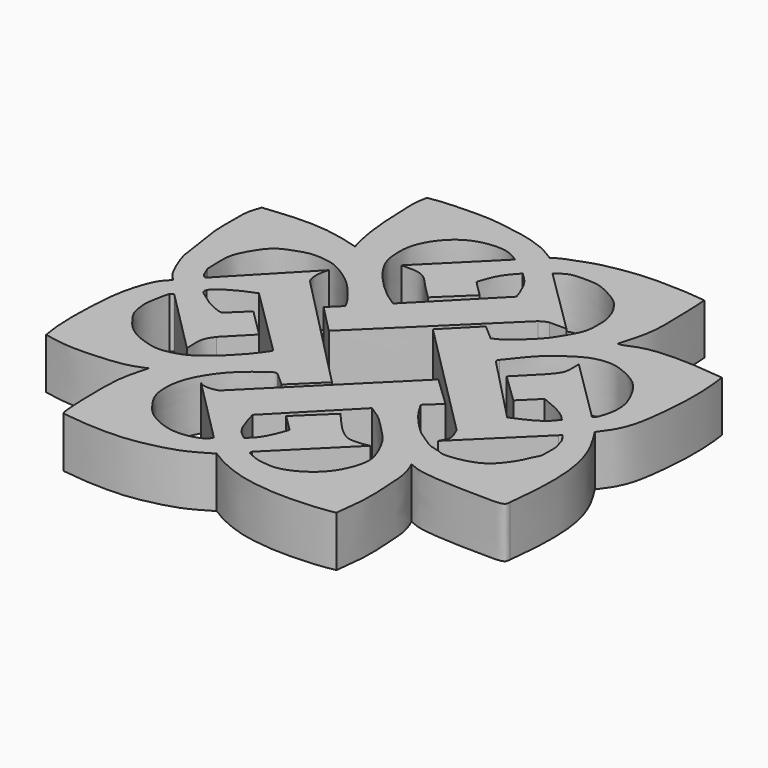
from build123d import *

# Parameters (mm, degrees)
F1_DEPTH = 10


with BuildPart() as f1:
    # F0 (on Top) → F1 (new body)
    with BuildSketch(Plane.XY):
        with BuildLine():
            add(Edge.make_bspline(
                [(23.5886722803, 4.0803840384), (25.0277781657, 3.8914194589), (28.1835495465, 3.4770447989), (34.8960021224, 3.317911598), (39.3939281525, 3.9784185074), (44.6688068319, 5.2575231869), (47.8248183426, 6.8404208115), (49.5735019777, 7.8809484611), (50.4062622786, 8.3764698356)],
                knots=[0, 0, 0, 0, 0.1683308158, 0.3691275093, 0.5392547442, 0.7191014029, 0.8662301199, 1, 1, 1, 1], degree=3))
            add(Edge.make_bspline(
                [(50.4062622786, 8.3764698356), (51.2130528196, 7.8613264335), (53.0583217342, 6.6831047536), (57.8981672221, 4.7408751841), (62.0951508517, 4.0479461741), (67.1773429523, 3.5125301129), (74.3514666814, 3.9605297062), (76.3877286506, 4.3553247902), (77.1680101752, 4.50660754)],
                knots=[0, 0, 0, 0, 0.1384644991, 0.3166921561, 0.4785917296, 0.6588810648, 0.8692855797, 1, 1, 1, 1], degree=3))
            add(Edge.make_bspline(
                [(77.1680101752, 4.50660754), (77.3080498781, 5.6232561077), (77.6069217785, 8.006400836), (77.9920143264, 12.2418776451), (77.5316432769, 18.4339634202), (77.3371624237, 21.3846424069), (76.5242855569, 23.3796707606), (76.112896204, 24.3893358856)],
                knots=[0, 0, 0, 0, 0.1862031928, 0.3973937461, 0.6474000873, 0.8215524936, 1, 1, 1, 1], degree=3))
            add(Edge.make_bspline(
                [(76.112896204, 24.3893358856), (76.8540346607, 24.0715439831), (78.5339120026, 23.3512313185), (82.7828455837, 22.935753604), (87.595903135, 22.7281959749), (93.994405235, 22.5735932152), (95.8115551095, 22.9164190876), (95.8762627653, 23.6096352847), (95.9037169814, 23.9037536085)],
                knots=[0, 0, 0, 0, 0.1511068718, 0.3425014689, 0.5588604109, 0.7986745178, 0.914581463, 1, 1, 1, 1], degree=3))
            add(Edge.make_bspline(
                [(95.9037169814, 23.9037536085), (96.0959836536, 25.5829962664), (96.4970564196, 29.0859356464), (96.6646631815, 35.2354916176), (96.1138441627, 40.7153593792), (94.3425547156, 45.9366488823), (92.4119370619, 48.9680918859), (91.4482995868, 50.4811890423)],
                knots=[0, 0, 0, 0, 0.1940495945, 0.4047919835, 0.6048229845, 0.8027536003, 1, 1, 1, 1], degree=3))
            add(Edge.make_bspline(
                [(91.4482995868, 50.4811890423), (92.0225976116, 51.2306625483), (93.2657935796, 52.8530648561), (94.8768073549, 56.4701933688), (95.5394892627, 62.1009652431), (95.9822906406, 66.4866295742), (95.9816068538, 71.9366209348), (95.6606687705, 75.1187560591), (95.4872660211, 76.3872104177), (95.4137742519, 76.9248083234)],
                knots=[0, 0, 0, 0, 0.1249393206, 0.2704589828, 0.4440268254, 0.6016065789, 0.7725810081, 0.9036149997, 1, 1, 1, 1], degree=3))
            add(Edge.make_bspline(
                [(95.4137742519, 76.9248083234), (94.0118853269, 77.080965275), (91.0620220278, 77.4095516931), (85.9394076565, 77.6927952007), (79.8008718602, 77.3609032743), (76.6658775418, 75.670710659), (75.9951481665, 75.7325473178), (75.7788419724, 75.7524892688)],
                knots=[0, 0, 0, 0, 0.2168767404, 0.4563533712, 0.7192858571, 0.9094713753, 1, 1, 1, 1], degree=3))
            add(Edge.make_bspline(
                [(75.7788419724, 75.7524892688), (75.9806765307, 76.4576287412), (76.3755146708, 77.8370553375), (76.9234390562, 79.6933453327), (77.6309014269, 83.6311268593), (77.4347391144, 87.5286374198), (77.4192170556, 91.7155290579), (77.2500009911, 94.1894631771), (77.1680101752, 95.3881666064)],
                knots=[0, 0, 0, 0, 0.1350587165, 0.264208136, 0.4471189334, 0.6334825006, 0.8224100714, 1, 1, 1, 1], degree=3))
            add(Edge.make_bspline(
                [(77.1680101752, 95.3881666064), (75.9853289271, 95.5230534567), (73.5702638543, 95.7984958225), (69.6757970228, 95.9286440956), (65.6596956979, 95.9848532008), (62.2003551182, 95.5778438101), (59.8661901693, 95.2092066631), (56.3690914569, 94.5081356713), (53.5463701784, 93.3663149164), (50.9145234283, 92.4611252708), (50.0655227387, 91.8178402568), (49.7067496181, 91.5459990501)],
                knots=[0, 0, 0, 0, 0.1201513333, 0.2453520667, 0.373454304, 0.4901999297, 0.587973005, 0.7062071933, 0.8193343326, 0.9236537896, 1, 1, 1, 1], degree=3))
            add(Edge.make_bspline(
                [(49.7067496181, 91.5459990501), (48.8420396606, 92.0983473026), (46.9651643481, 93.297233461), (42.7254471347, 94.7663035804), (38.6980938084, 95.3744706841), (33.9617267493, 96.1556441633), (29.5802775836, 95.9888461414), (25.2263131502, 95.8900360686), (23.2355226364, 95.5437626457), (22.3409719765, 95.3881666064)],
                knots=[0, 0, 0, 0, 0.1281173016, 0.2780819146, 0.4237943191, 0.5791341213, 0.7304893412, 0.8788968824, 1, 1, 1, 1], degree=3))
            add(Edge.make_bspline(
                [(22.3409719765, 95.3881666064), (22.1918445571, 94.6938273295), (21.8522570021, 93.112703092), (22.0319407628, 89.4383626394), (22.2370729312, 83.8453581662), (22.953966053, 78.8404526146), (23.5754617061, 76.6942275745), (23.8481666893, 75.7524892688)],
                knots=[0, 0, 0, 0, 0.1518385001, 0.3457611295, 0.590292833, 0.8202253137, 1, 1, 1, 1], degree=3))
            add(Edge.make_bspline(
                [(23.8481666893, 75.7524892688), (23.1363443413, 75.9651360498), (21.5748826597, 76.4317914438), (18.1544213706, 77.1883630825), (14.1649319676, 77.620788621), (9.4266109793, 77.4628773283), (6.2042182995, 77.1017338877), (4.4317506254, 76.9248083234)],
                knots=[0, 0, 0, 0, 0.1552687411, 0.3446036079, 0.5496961801, 0.7702433279, 1, 1, 1, 1], degree=3))
            add(Edge.make_bspline(
                [(4.4317506254, 76.9248083234), (4.2873373489, 76.1922807408), (3.5073996938, 74.6172295031), (3.6814170391, 71.0160920165), (3.4566723021, 66.5619170527), (4.5349774944, 61.6199307986), (4.8447442618, 57.2691271771), (5.8511554714, 54.5183265467), (7.4294269412, 50.8375064479), (8.5389920074, 49.9112329786), (8.8037608205, 49.6145067618), (8.9031374082, 49.5034269989)],
                knots=[0, 0, 0, 0, 0.0997614179, 0.2209824724, 0.3584147636, 0.5050085413, 0.6381585188, 0.7511896701, 0.8794784404, 0.9547908609, 1, 1, 1, 1], degree=3))
            add(Edge.make_bspline(
                [(8.9031374082, 49.5034269989), (8.3142850259, 48.9015377144), (6.995452887, 47.5514689817), (5.6661435406, 43.5810834767), (4.8169411297, 39.5935254297), (4.5417158533, 35.1925710756), (4.3663341331, 30.1544687872), (4.561289977, 25.748911572), (4.9368893984, 23.7943530989), (5.0540175289, 22.9261722416)],
                knots=[0, 0, 0, 0, 0.1176257204, 0.2641416893, 0.4113307917, 0.5630464838, 0.7271780273, 0.8791701692, 1, 1, 1, 1], degree=3))
            add(Edge.make_bspline(
                [(5.0540175289, 22.9261722416), (6.7376800817, 22.6104789608), (10.2079566888, 21.9597885922), (16.0056092542, 22.2007161252), (21.1185004492, 22.7042502588), (23.3725333851, 23.653745323), (24.3887268007, 24.0818094462)],
                knots=[0, 0, 0, 0, 0.2587670324, 0.5333569827, 0.7896217247, 1, 1, 1, 1], degree=3))
            add(Edge.make_bspline(
                [(24.3887268007, 24.0818094462), (24.2346951409, 23.5487714186), (23.8580084205, 22.2452189747), (22.9865575764, 18.3953962053), (22.8940265663, 14.2056885881), (22.9592849411, 9.0411495025), (23.2070624028, 4.5940546069), (23.5108693549, 4.1851116026), (23.5886722803, 4.0803840384)],
                knots=[0, 0, 0, 0, 0.1293518728, 0.3163319334, 0.513237114, 0.7377856488, 0.9328486611, 1, 1, 1, 1], degree=3))
        make_face()
        with BuildLine():
            add(Edge.make_bspline(
                [(25.1397415996, 49.0368455648), (26.975421235, 47.207026432), (28.8111008704, 45.3772072991), (30.6467805058, 43.5473881662)],
                knots=[0, 0, 0, 0, 7.7757070448, 7.7757070448, 7.7757070448, 7.7757070448], degree=3))
            add(Edge.make_bspline(
                [(21.655458957, 45.7109920681), (22.8168865045, 46.8196099003), (23.978314052, 47.9282277326), (25.1397415996, 49.0368455648)],
                knots=[0, 0, 0, 0, 4.8167963436, 4.8167963436, 4.8167963436, 4.8167963436], degree=3))
            add(Edge.make_bspline(
                [(15.0212915614, 50.126273185), (14.9694457016, 49.8650483174), (14.8494344759, 49.2603729078), (16.0773455608, 48.4499779826), (17.7032353367, 47.2071460012), (19.4904697022, 46.2690848865), (21.0736263753, 45.6429870785), (21.5005252303, 45.6928833083), (21.655458957, 45.7109920681)],
                knots=[0, 0, 0, 0, 0.125647543, 0.290845126, 0.5006168389, 0.710825241, 0.8950502618, 1, 1, 1, 1], degree=3))
            add(Edge.make_bspline(
                [(22.0145303756, 54.2951785028), (21.6006307054, 54.1418454983), (20.6871204935, 53.8034270951), (18.8496957679, 52.9735600039), (17.0043937301, 51.8966954061), (15.6462250835, 50.8939025538), (15.2093511681, 50.3572738788), (15.0212915614, 50.126273185)],
                knots=[0, 0, 0, 0, 0.1855195673, 0.4094567633, 0.6434230214, 0.8465055385, 1, 1, 1, 1], degree=3))
            add(Edge.make_bspline(
                [(35.6977321208, 40.7325252891), (31.1366648724, 45.2534096936), (26.575597624, 49.7742940982), (22.0145303756, 54.2951785028)],
                knots=[0, 0, 0, 0, 19.2659173723, 19.2659173723, 19.2659173723, 19.2659173723], degree=3))
            add(Edge.make_bspline(
                [(35.5840213597, 40.3898283839), (35.6219249467, 40.5040606856), (35.6598285337, 40.6182929873), (35.6977321208, 40.7325252891)],
                knots=[0, 0, 0, 0, 0.3610696691, 0.3610696691, 0.3610696691, 0.3610696691], degree=3))
            add(Edge.make_bspline(
                [(11.3919517025, 45.5416403711), (11.2869199738, 45.2212171125), (11.0345594154, 44.4513336357), (10.6863782654, 42.2407383513), (10.3798612992, 40.6951164463), (10.6411142638, 38.9117347102), (10.8796386083, 37.2060081489), (12.2004278776, 35.2696927651), (13.5014654017, 33.5273264633), (15.7913313481, 31.5839179104), (19.2453289586, 30.3592155589), (21.4315976966, 29.9738056102), (24.2606361546, 30.3807507719), (27.2101677183, 31.6251854423), (30.0090321733, 33.9744776402), (31.8237482962, 35.7171607497), (33.6064731088, 37.6201405576), (34.892661654, 39.4215331428), (35.5840213597, 40.3898283839)],
                knots=[0, 0, 0, 0, 0.0425461995, 0.1022260873, 0.1534009869, 0.2060958327, 0.2586620848, 0.3189837352, 0.3782216601, 0.4475058661, 0.5237754538, 0.583465039, 0.6496110329, 0.7218736412, 0.7981916465, 0.8616667765, 0.9256423041, 1, 1, 1, 1], degree=3))
            add(Edge.make_bspline(
                [(12.1848862618, 45.7109920681), (12.0828226804, 45.7936255832), (11.8506991177, 45.9815592776), (11.5566877354, 45.6996150933), (11.3919517025, 45.5416403711)],
                knots=[0, 0, 0, 0, 0.4396950497, 1, 1, 1, 1], degree=3))
            add(Edge.make_bspline(
                [(24.8163323849, 33.0103524029), (20.6058503439, 37.243898958), (16.3953683029, 41.477445513), (12.1848862618, 45.7109920681)],
                knots=[0, 0, 0, 0, 17.9125564637, 17.9125564637, 17.9125564637, 17.9125564637], degree=3))
            add(Edge.make_bspline(
                [(25.9913485497, 38.8015061617), (25.7777535032, 38.4893081048), (25.3367674447, 37.8447473211), (24.7199596408, 36.641088418), (24.7177543938, 35.0129826693), (24.7821719672, 33.704327658), (24.8163323849, 33.0103524029)],
                knots=[0, 0, 0, 0, 0.2187314488, 0.45159062, 0.7091803905, 1, 1, 1, 1], degree=3))
            add(Edge.make_bspline(
                [(30.6467805058, 43.5473881662), (29.0949698538, 41.965427498), (27.5431592017, 40.3834668299), (25.9913485497, 38.8015061617)],
                knots=[0, 0, 0, 0, 6.6480405157, 6.6480405157, 6.6480405157, 6.6480405157], degree=3))
        make_face(mode=Mode.SUBTRACT)
        with BuildLine():
            add(Edge.make_bspline(
                [(54.2663708329, 21.5834677219), (54.0002048082, 20.8170986368), (53.4449154127, 19.2182596174), (52.0665627763, 16.5253848688), (50.9280702362, 15.5655858081), (50.4062622786, 15.1256788522)],
                knots=[0, 0, 0, 0, 0.3327361148, 0.6941713776, 1, 1, 1, 1], degree=3))
            add(Edge.make_bspline(
                [(50.4062622786, 15.1256788522), (49.8032536922, 15.5598688659), (48.5175025771, 16.4856604829), (47.3761257598, 19.2390383343), (46.881306984, 21.0508301639), (46.6348491609, 21.9532418996)],
                knots=[0, 0, 0, 0, 0.30714627, 0.6549055323, 1, 1, 1, 1], degree=3))
            add(Edge.make_bspline(
                [(46.6348491609, 21.9532418996), (50.9637097518, 26.3749745985), (55.2925703426, 30.7967072974), (59.6214309335, 35.2184399962)],
                knots=[0, 0, 0, 0, 18.563856999, 18.563856999, 18.563856999, 18.563856999], degree=3))
            add(Edge.make_bspline(
                [(59.6214309335, 35.2184399962), (60.4886029667, 34.69254606), (62.3103448229, 33.5877560541), (64.906111805, 30.7876446921), (67.7082529558, 28.1749312254), (69.5796233056, 24.1643054743), (70.4867639209, 21.4739188533), (69.6438901314, 17.8376824487), (67.7986006165, 14.588217372), (65.05913043, 12.1098639705), (61.1319381212, 10.2340717753), (58.4193195272, 10.428541394), (56.1646533161, 10.7494081617), (54.9555063109, 11.4501363844), (54.1471772568, 11.7201319493), (54.2290235754, 12.1167661835), (54.2663708329, 12.297754176)],
                knots=[0, 0, 0, 0, 0.0763565099, 0.160408598, 0.2460983174, 0.3361153595, 0.4085052592, 0.4900710561, 0.573521708, 0.6570719656, 0.7460738921, 0.8173609292, 0.8819925367, 0.9333921942, 0.9696062215, 1, 1, 1, 1], degree=3))
            add(Edge.make_bspline(
                [(54.2663708329, 12.297754176), (58.6042230328, 16.6082661599), (62.9420752327, 20.9187781438), (67.2799274325, 25.2292901278)],
                knots=[0, 0, 0, 0, 18.3460425554, 18.3460425554, 18.3460425554, 18.3460425554], degree=3))
            add(Edge.make_bspline(
                [(67.2799274325, 25.2292901278), (66.6563800226, 25.0906351598), (65.724403192, 24.8833963589), (65.3508929504, 24.966613642), (63.4346135714, 24.7128934216), (61.8395481688, 25.6922795297), (60.4420196277, 26.7469547536), (58.3377560697, 29.1620534696), (56.9906830788, 30.7081118226)],
                knots=[0, 0, 0, 0, 0.1537309003, 0.2297718424, 0.3928625872, 0.5580928913, 0.7171071426, 1, 1, 1, 1], degree=3))
            add(Edge.make_bspline(
                [(56.9906830788, 30.7081118226), (54.9672792355, 28.7620363136), (52.9438753923, 26.8159608046), (50.920471549, 24.8698852956)],
                knots=[0, 0, 0, 0, 8.4221349429, 8.4221349429, 8.4221349429, 8.4221349429], degree=3))
            add(Edge.make_bspline(
                [(50.920471549, 24.8698852956), (52.0357713103, 23.7744127711), (53.1510710716, 22.6789402465), (54.2663708329, 21.5834677219)],
                knots=[0, 0, 0, 0, 4.6899448277, 4.6899448277, 4.6899448277, 4.6899448277], degree=3))
        make_face(mode=Mode.SUBTRACT)
        with BuildLine():
            add(Edge.make_bspline(
                [(25.6249383092, 67.0811012387), (21.1877739057, 62.4592006207), (16.7506095022, 57.8373000026), (12.3134450987, 53.2153993845)],
                knots=[0, 0, 0, 0, 19.2211742462, 19.2211742462, 19.2211742462, 19.2211742462], degree=3))
            add(Edge.make_bspline(
                [(12.3134450987, 53.2153993845), (12.0640559275, 53.3382344414), (11.5415786887, 53.5955772967), (11.2282268135, 54.5743477695), (10.8785744559, 55.3146415147), (10.6915347278, 55.7106472552)],
                knots=[0, 0, 0, 0, 0.2981028646, 0.6245337791, 1, 1, 1, 1], degree=3))
            add(Edge.make_bspline(
                [(10.6915347278, 55.7106472552), (10.6034312969, 57.5893558007), (10.4555986444, 60.7417241548), (11.3195448424, 62.9805842803), (12.7595618631, 65.5756918077), (14.6127436909, 67.8178483148), (17.7060026455, 69.0039299231), (20.290008963, 69.8077791746), (23.7417038049, 69.4629598644), (25.9902077685, 68.7390186643), (29.8391506219, 66.1692868561), (31.9013587282, 63.8663097618), (34.1453959568, 61.1513345015), (34.8172851708, 59.8565338834), (35.1107977331, 59.2909045517)],
                knots=[0, 0, 0, 0, 0.106116322, 0.178057281, 0.2579634354, 0.3381947053, 0.422442735, 0.5009415158, 0.5862871184, 0.6601497002, 0.7595681489, 0.8451405248, 0.9323501548, 1, 1, 1, 1], degree=3))
            add(Edge.make_bspline(
                [(35.1107977331, 59.2909045517), (34.3058407307, 58.5017763078), (33.5008837283, 57.7126480639), (32.6959267259, 56.92351982)],
                knots=[0, 0, 0, 0, 3.381732167, 3.381732167, 3.381732167, 3.381732167], degree=3))
            add(Edge.make_bspline(
                [(32.6959267259, 56.92351982), (34.5541623731, 55.027016749), (36.4123980204, 53.130513678), (38.2706336677, 51.234010607)],
                knots=[0, 0, 0, 0, 7.965417288, 7.965417288, 7.965417288, 7.965417288], degree=3))
            add(Edge.make_bspline(
                [(38.2706336677, 51.234010607), (46.369937559, 58.946095407), (53.3910232286, 66.2223137915), (61.4903271198, 73.9343985915)],
                knots=[0, 0, 0, 0, 32.4724772486, 32.4724772486, 32.4724772486, 32.4724772486], degree=3))
            add(Edge.make_bspline(
                [(61.4903271198, 73.9343985915), (61.7721210954, 74.1163770777), (62.3187076836, 74.4693548151), (62.8937533803, 74.6148100846), (63.1723329425, 74.6852755547)],
                knots=[0, 0, 0, 0, 0.5155523052, 1, 1, 1, 1], degree=3))
            add(Edge.make_bspline(
                [(63.1723329425, 74.6852755547), (64.2777482669, 74.6852755547), (65.3831635912, 74.6852755547), (66.4885789156, 74.6852755547)],
                knots=[0, 0, 0, 0, 3.3162459731, 3.3162459731, 3.3162459731, 3.3162459731], degree=3))
            add(Edge.make_bspline(
                [(66.4885789156, 74.6852755547), (62.0889092485, 79.0330991149), (57.6892395814, 83.3809226751), (53.2895699143, 87.7287462354)],
                knots=[0, 0, 0, 0, 18.5565612659, 18.5565612659, 18.5565612659, 18.5565612659], degree=3))
            add(Edge.make_bspline(
                [(53.2895699143, 87.7287462354), (53.6715212072, 88.0396531122), (54.4512319624, 88.6743346548), (55.9441235258, 89.411288102), (58.3655493057, 89.4164457803), (61.0124154887, 89.3861586598), (63.1678093907, 88.42083887), (65.2251295506, 87.3075612334), (66.9160857783, 86.1002417536), (68.4816575576, 83.6936619089), (68.9698273057, 82.4115942819), (69.5039432894, 80.4786557153), (69.4807828709, 79.3668698598), (69.5160153395, 78.0201433024), (69.3760792407, 76.1922350151), (68.6764504633, 74.4701002514), (67.2251697494, 72.0161120642), (66.1590075466, 70.3049176257), (63.7351916067, 67.880395555), (61.1837773369, 65.6526109282), (59.9058167062, 65.0966677678), (59.3597814441, 64.8591294885)],
                knots=[0, 0, 0, 0, 0.0441536249, 0.0901346765, 0.1464440995, 0.2056488072, 0.2612396797, 0.3162073012, 0.3692500544, 0.4295095581, 0.4734805762, 0.5237306453, 0.5622273957, 0.6038829837, 0.6524775587, 0.7025950423, 0.7631616338, 0.8152944103, 0.8824619964, 0.9497794431, 1, 1, 1, 1], degree=3))
            add(Edge.make_bspline(
                [(59.3597814441, 64.8591294885), (58.3351925015, 65.7483960191), (57.310603559, 66.6376625498), (56.2860146165, 67.5269290805)],
                knots=[0, 0, 0, 0, 4.0700365076, 4.0700365076, 4.0700365076, 4.0700365076], degree=3))
            add(Edge.make_bspline(
                [(56.2860146165, 67.5269290805), (54.4237109522, 65.6324041386), (52.3626257976, 63.5608347754), (50.5003221333, 61.6663098335)],
                knots=[0, 0, 0, 0, 8.2353564263, 8.2353564263, 8.2353564263, 8.2353564263], degree=3))
            add(Edge.make_bspline(
                [(50.5003221333, 61.6663098335), (58.4823389848, 53.6483017107), (66.4643558363, 45.6302935878), (74.4463726878, 37.612285465)],
                knots=[0, 0, 0, 0, 33.9412643471, 33.9412643471, 33.9412643471, 33.9412643471], degree=3))
            add(Edge.make_bspline(
                [(74.4463726878, 37.612285465), (74.6235476099, 37.2148301887), (74.9579373746, 36.4646959445), (75.2864025199, 35.4925008299), (75.3523129296, 34.5882523609), (74.6865122618, 33.5015809271), (74.5136044498, 33.1773091791), (74.4463726878, 33.0512225628)],
                knots=[0, 0, 0, 0, 0.2307584931, 0.4355203168, 0.628253083, 0.8554536089, 1, 1, 1, 1], degree=3))
            add(Edge.make_bspline(
                [(74.4463726878, 33.0512225628), (78.8919826349, 37.4125639598), (83.3375925819, 41.7739053567), (87.783202529, 46.1352467537)],
                knots=[0, 0, 0, 0, 18.6832202588, 18.6832202588, 18.6832202588, 18.6832202588], degree=3))
            add(Edge.make_bspline(
                [(87.783202529, 46.1352467537), (87.9209265113, 46.2630515297), (88.0586504936, 46.3908563058), (88.196374476, 46.5186610818)],
                knots=[0, 0, 0, 0, 0.5636644434, 0.5636644434, 0.5636644434, 0.5636644434], degree=3))
            add(Edge.make_bspline(
                [(88.196374476, 46.5186610818), (88.5467397307, 46.1170883966), (89.2301325783, 45.3335482629), (89.6279262955, 43.9716100934), (90.0476924518, 42.6143632502), (89.9861407857, 41.2232434713), (90.0328768659, 39.580557509), (89.802191866, 38.7747668936), (89.4156098366, 38.0849391222), (89.1642943025, 37.612285465)],
                knots=[0, 0, 0, 0, 0.1535959757, 0.2991892182, 0.4440037909, 0.5913646325, 0.7472145622, 0.8578575519, 1, 1, 1, 1], degree=3))
            add(Edge.make_bspline(
                [(89.1642943025, 37.612285465), (89.0078196876, 37.2128786748), (88.6737354409, 36.3601172431), (87.790637569, 34.8781398582), (86.7587742906, 33.4511616429), (85.4136611597, 32.0744875028), (83.7081696479, 31.0352337971), (81.547041183, 30.4257214204), (79.6651120904, 30.0346843612), (77.4712061202, 29.9515984134), (76.8139733904, 30.4799053306), (74.7393319944, 30.799537586), (73.2695121101, 31.7876855321), (70.6314536475, 33.4178088758), (68.5716786404, 35.5456843617), (66.4995066283, 37.8511081288), (65.3725898746, 39.7869314045), (64.7948160768, 40.7794341445)],
                knots=[0, 0, 0, 0, 0.053236036, 0.1136626602, 0.1752524232, 0.2388562533, 0.3040151974, 0.3725227275, 0.4386495977, 0.5044835091, 0.5464089367, 0.6106718099, 0.673445417, 0.7538360308, 0.8339936509, 0.9148880177, 1, 1, 1, 1], degree=3))
            add(Edge.make_bspline(
                [(64.7948160768, 40.7794341445), (65.7268315554, 41.657264034), (66.658847034, 42.5350939234), (67.5908625126, 43.4129238129)],
                knots=[0, 0, 0, 0, 3.8409821016, 3.8409821016, 3.8409821016, 3.8409821016], degree=3))
            add(Edge.make_bspline(
                [(67.5908625126, 43.4129238129), (65.6076185405, 45.3094703456), (63.6243745685, 47.2060168783), (61.6411305964, 49.102563411)],
                knots=[0, 0, 0, 0, 8.232333122, 8.232333122, 8.232333122, 8.232333122], degree=3))
            add(Edge.make_bspline(
                [(61.6411305964, 49.102563411), (53.7002372245, 41.1899772783), (45.7593438526, 33.2773911456), (37.8184504807, 25.3648050129)],
                knots=[0, 0, 0, 0, 33.6303621993, 33.6303621993, 33.6303621993, 33.6303621993], degree=3))
            add(Edge.make_bspline(
                [(37.8184504807, 25.3648050129), (37.640074684, 25.2217531666), (37.1849682207, 24.8551490389), (35.3612521663, 24.7291329276), (34.4486753562, 24.8746264209), (33.872804369, 25.2434350039), (33.6621906778, 25.4328151586)],
                knots=[0, 0, 0, 0, 0.2053703026, 0.5163948496, 0.7551245522, 0.941920662, 0.941920662, 0.941920662, 0.941920662], degree=3))
            add(Edge.make_bspline(
                [(33.6621906778, 25.4328151586), (38.0112342649, 21.0570167364), (42.3602778521, 16.6812183142), (46.7093214393, 12.3054198921)],
                knots=[0.2591323449, 0.2591323449, 0.2591323449, 0.2591323449, 18.7674042142, 18.7674042142, 18.7674042142, 18.7674042142], degree=3))
            add(Edge.make_bspline(
                [(46.7093214393, 12.3054198921), (46.5792970073, 12.0047346266), (46.2291758287, 11.1950692584), (43.1238954803, 10.0483575935), (39.3044948723, 9.9979342758), (34.6550015531, 12.0218432396), (32.3249833216, 14.9714332204), (30.3161776014, 18.1143358612), (30.4008389749, 23.5368543593), (32.5886137032, 27.8202528892), (34.8782946838, 30.8500064586), (37.7061935145, 33.3205579433), (40.3831923287, 35.3548963459), (40.8731576627, 35.1765637301), (41.0143509507, 35.1251736283)],
                knots=[0, 0, 0, 0, 0.0475817751, 0.1281250526, 0.2199270104, 0.3219329223, 0.410571851, 0.4980223356, 0.6032540714, 0.7043650963, 0.7934585146, 0.8858330486, 0.9671005148, 1, 1, 1, 1], degree=3))
            add(Edge.make_bspline(
                [(41.0143509507, 35.1251736283), (41.9415980577, 34.3052111566), (42.8688451648, 33.4852486849), (43.7960922718, 32.6652862132)],
                knots=[0, 0, 0, 0, 3.7133719007, 3.7133719007, 3.7133719007, 3.7133719007], degree=3))
            add(Edge.make_bspline(
                [(43.7960922718, 32.6652862132), (45.6659135719, 34.4814658165), (47.535734872, 36.2976454198), (49.4055561721, 38.1138250232)],
                knots=[0, 0, 0, 0, 7.8200166505, 7.8200166505, 7.8200166505, 7.8200166505], degree=3))
            add(Edge.make_bspline(
                [(49.4055561721, 38.1138250232), (41.4539010574, 46.2278487782), (33.5022459428, 54.3418725332), (25.5505908281, 62.4558962882)],
                knots=[0, 0, 0, 0, 34.0821919048, 34.0821919048, 34.0821919048, 34.0821919048], degree=3))
            add(Edge.make_bspline(
                [(25.5505908281, 62.4558962882), (25.388246754, 62.9116495951), (25.0372392828, 63.8970432206), (25.2724758119, 65.9831476167), (25.51950757, 66.7526746319), (25.6249383092, 67.0811012387)],
                knots=[0, 0, 0, 0, 0.3303173711, 0.7141860011, 1, 1, 1, 1], degree=3))
        make_face(mode=Mode.SUBTRACT)
        with BuildLine():
            add(Edge.make_bspline(
                [(45.8468720317, 78.2371535897), (46.0341525029, 78.8315511376), (46.4390610599, 80.1166645921), (47.439749743, 82.3666179458), (49.233492235, 84.4152708845), (49.5921250601, 84.7508882705), (49.7067496181, 84.8581567407)],
                knots=[0, 0, 0, 0, 0.2570006953, 0.5556467259, 0.8579778703, 1, 1, 1, 1], degree=3))
            add(Edge.make_bspline(
                [(49.7067496181, 84.8581567407), (50.4639941984, 84.1563384021), (51.969407256, 82.761113506), (53.1889593233, 79.9134649693), (53.5991668352, 78.7419266953), (53.7759102881, 78.2371535897)],
                knots=[0, 0, 0, 0, 0.3654986307, 0.7266165061, 1, 1, 1, 1], degree=3))
            add(Edge.make_bspline(
                [(53.7759102881, 78.2371535897), (49.2899256448, 73.6734916766), (44.8039410015, 69.1098297636), (40.3179563582, 64.5461678505)],
                knots=[0, 0, 0, 0, 19.1979065132, 19.1979065132, 19.1979065132, 19.1979065132], degree=3))
            add(Edge.make_bspline(
                [(40.3179563582, 64.5461678505), (39.337710471, 65.1766981486), (37.1263509298, 66.5991261424), (32.9972159876, 70.7647945566), (30.6489436809, 74.5278885779), (30.1784688152, 77.5718191425), (30.2191920351, 81.2135953491), (32.1538103172, 85.1268424558), (35.3816507739, 88.2268064509), (39.4156954392, 89.4518152091), (43.3162155207, 89.4031383983), (45.0400883963, 88.2995584226), (45.8468720317, 87.7830758691)],
                knots=[0, 0, 0, 0, 0.0972259933, 0.2193343841, 0.3246105313, 0.4110188647, 0.5053724612, 0.6094311467, 0.7145599481, 0.8170085912, 0.9143588393, 1, 1, 1, 1], degree=3))
            add(Edge.make_bspline(
                [(45.8468720317, 87.7830758691), (41.6819453239, 83.6307605108), (37.5170186162, 79.4784451524), (33.3520919085, 75.3261297941)],
                knots=[0, 0, 0, 0, 17.6435550795, 17.6435550795, 17.6435550795, 17.6435550795], degree=3))
            add(Edge.make_bspline(
                [(33.3520919085, 75.3261297941), (34.4519577392, 75.35592884), (36.460066578, 75.4103352283), (38.5650921873, 74.5238007274), (40.3356118582, 72.3668667221), (42.2027436137, 70.5332439232), (43.237041682, 69.5175081491)],
                knots=[0, 0, 0, 0, 0.2557399623, 0.4669239323, 0.7047023888, 1, 1, 1, 1], degree=3))
            add(Edge.make_bspline(
                [(43.237041682, 69.5175081491), (45.1660988232, 71.3707034787), (47.0951559643, 73.2238988082), (49.0242131054, 75.0770941377)],
                knots=[0, 0, 0, 0, 8.0249828316, 8.0249828316, 8.0249828316, 8.0249828316], degree=3))
            add(Edge.make_bspline(
                [(49.0242131054, 75.0770941377), (47.9650994142, 76.1304472884), (46.9059857229, 77.183800439), (45.8468720317, 78.2371535897)],
                knots=[0, 0, 0, 0, 4.4812355483, 4.4812355483, 4.4812355483, 4.4812355483], degree=3))
        make_face(mode=Mode.SUBTRACT)
        with BuildLine():
            add(Edge.make_bspline(
                [(78.5161852837, 54.270604223), (79.0779886646, 54.0536118592), (80.3711177324, 53.5541504061), (83.4504260085, 52.1074456835), (84.4866925161, 50.9833180019), (84.9495753646, 50.4811890423)],
                knots=[0, 0, 0, 0, 0.2982737785, 0.6865506799, 1, 1, 1, 1], degree=3))
            add(Edge.make_bspline(
                [(84.9495753646, 50.4811890423), (84.4852005274, 49.8742611929), (83.4624736532, 48.5375793302), (80.3589518532, 46.8670983846), (78.6470324556, 46.1642722248), (77.8413265944, 45.8334907889)],
                knots=[0, 0, 0, 0, 0.3056802232, 0.6732220486, 1, 1, 1, 1], degree=3))
            add(Edge.make_bspline(
                [(77.8413265944, 45.8334907889), (73.5271573067, 50.305493176), (69.212988019, 54.777495563), (64.8988187313, 59.2494979501)],
                knots=[0, 0, 0, 0, 18.6412917453, 18.6412917453, 18.6412917453, 18.6412917453], degree=3))
            add(Edge.make_bspline(
                [(64.8988187313, 59.2494979501), (64.8505270417, 59.3176780994), (64.756902648, 59.4498607833), (64.6977842887, 59.6620521015), (64.7147214103, 59.9011277345), (64.8357367585, 60.0314955679), (64.8988187313, 60.099452734)],
                knots=[0, 0, 0, 0, 0.2539630664, 0.4923650076, 0.7353838397, 1, 1, 1, 1], degree=3))
            add(Edge.make_bspline(
                [(64.8988187313, 60.099452734), (66.2491890232, 61.8258035929), (68.6402445305, 64.8825953138), (71.5384948533, 67.0633673022), (74.9727667001, 69.4364533589), (78.4335554162, 70.0769455334), (80.8636902072, 69.6772785741), (83.9296589306, 68.3221954786), (86.2976335732, 66.6742250285), (88.2086361652, 63.6869429633), (89.40843863, 60.7693683224), (89.5309499683, 58.5346291094), (89.3037550155, 56.8099983238), (88.6993198214, 54.6910858108), (88.0599686, 53.9681277154), (87.8066033011, 54.270604223), (87.6949802041, 54.4038638473)],
                knots=[0, 0, 0, 0, 0.1085353208, 0.1921798622, 0.2811066545, 0.362015395, 0.430524336, 0.5098568633, 0.5845716745, 0.6667908328, 0.7450721849, 0.8092613772, 0.8680912766, 0.9337988815, 0.9708343096, 1, 1, 1, 1], degree=3))
            add(Edge.make_bspline(
                [(87.6949802041, 54.4038638473), (83.5905273755, 58.4711606304), (79.486074547, 62.5384574135), (75.3816217184, 66.6057541966)],
                knots=[0, 0, 0, 0, 17.3350778855, 17.3350778855, 17.3350778855, 17.3350778855], degree=3))
            add(Edge.make_bspline(
                [(75.3816217184, 66.6057541966), (75.4221095968, 65.6852604625), (75.4937856396, 64.0557024114), (75.0124938951, 62.5421557704), (73.9458694816, 61.3491950069), (73.3467489481, 60.6791116297)],
                knots=[0, 0, 0, 0, 0.3626495818, 0.6420017039, 1, 1, 1, 1], degree=3))
            add(Edge.make_bspline(
                [(73.3467489481, 60.6791116297), (71.9703982274, 59.28108717), (70.5940475067, 57.8830627104), (69.2176967859, 56.4850382507)],
                knots=[0, 0, 0, 0, 5.8855180967, 5.8855180967, 5.8855180967, 5.8855180967], degree=3))
            add(Edge.make_bspline(
                [(69.2176967859, 56.4850382507), (71.1575920383, 54.6101666987), (73.0974872907, 52.7352951467), (75.0373825431, 50.8604235947)],
                knots=[0, 0, 0, 0, 8.0935179212, 8.0935179212, 8.0935179212, 8.0935179212], degree=3))
            add(Edge.make_bspline(
                [(75.0373825431, 50.8604235947), (76.1969834566, 51.9971504708), (77.3565843701, 53.1338773469), (78.5161852837, 54.270604223)],
                knots=[0, 0, 0, 0, 4.8714885225, 4.8714885225, 4.8714885225, 4.8714885225], degree=3))
        make_face(mode=Mode.SUBTRACT)
    extrude(amount=F1_DEPTH)


solid = f1.part
